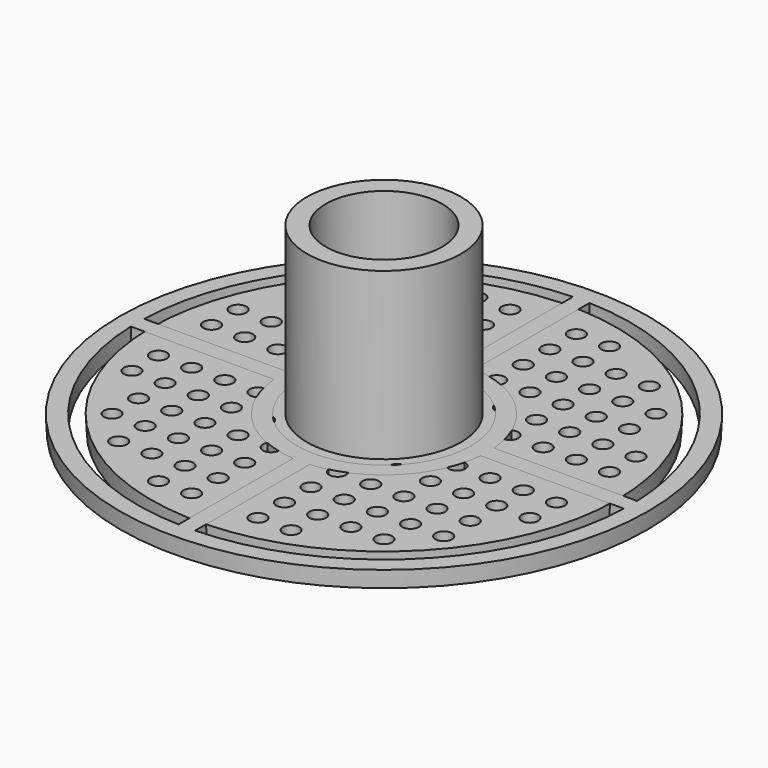
from build123d import *

# Parameters (mm, degrees)
SKETCH_R        = 28
PAD_DEPTH       = 2
PAD_TAPER       = -3
SKETCH001_R     = 9.3
PAD001_DEPTH    = 20
SKETCH002_R     = 7.020729
POCKET_DEPTH    = 20
SKETCH006_R     = 1
POCKET003_DEPTH = 2.001
SKETCH007_R     = 1
POCKET004_DEPTH = 2.001
SKETCH003_R     = 31.75
PAD002_DEPTH    = 2
PAD002_TAPER    = -3
SKETCH004_R     = 10.5
POCKET001_DEPTH = 2.001
POCKET002_DEPTH = 5


with BuildPart() as body:
    # Sketch → Pad (new body)
    with BuildSketch(Plane.XY):
        Circle(SKETCH_R)
    extrude(amount=PAD_DEPTH, taper=PAD_TAPER)

    # Sketch001 (on Face3 of Pad) → Pad001 (join)
    with BuildSketch(Plane.XY.offset(2)):
        Circle(SKETCH001_R)
    extrude(amount=PAD001_DEPTH)

    # Sketch002 (on Face5 of Pad001) → Pocket (cut)
    with BuildSketch(Plane.XY.offset(22)):
        Circle(SKETCH002_R)
    extrude(amount=-POCKET_DEPTH, mode=Mode.SUBTRACT)

    # Sketch006 (on Face3 of Pocket) → Pocket003 (cut, through all)
    with BuildSketch(Plane.XY.offset(2)):
        with Locations((0, -24)):
            Circle(SKETCH006_R)
        with Locations((4, -24)):
            Circle(SKETCH006_R)
        with Locations((-4, -24)):
            Circle(SKETCH006_R)
        with Locations((-8, -24)):
            Circle(SKETCH006_R)
        with Locations((8, -24)):
            Circle(SKETCH006_R)
        with Locations((-16, -20)):
            Circle(SKETCH006_R)
        with Locations((-12, -20)):
            Circle(SKETCH006_R)
        with Locations((-8, -20)):
            Circle(SKETCH006_R)
        with Locations((-4, -20)):
            Circle(SKETCH006_R)
        with Locations((0, -20)):
            Circle(SKETCH006_R)
        with Locations((4, -20)):
            Circle(SKETCH006_R)
        with Locations((8, -20)):
            Circle(SKETCH006_R)
        with Locations((12, -20)):
            Circle(SKETCH006_R)
        with Locations((16, -20)):
            Circle(SKETCH006_R)
        with Locations((-20, -16)):
            Circle(SKETCH006_R)
        with Locations((-16, -16)):
            Circle(SKETCH006_R)
        with Locations((-12, -16)):
            Circle(SKETCH006_R)
        with Locations((-8, -16)):
            Circle(SKETCH006_R)
        with Locations((-4, -16)):
            Circle(SKETCH006_R)
        with Locations((0, -16)):
            Circle(SKETCH006_R)
        with Locations((4, -16)):
            Circle(SKETCH006_R)
        with Locations((8, -16)):
            Circle(SKETCH006_R)
        with Locations((12, -16)):
            Circle(SKETCH006_R)
        with Locations((16, -16)):
            Circle(SKETCH006_R)
        with Locations((20, -16)):
            Circle(SKETCH006_R)
        with Locations((-20, -12)):
            Circle(SKETCH006_R)
        with Locations((-16, -12)):
            Circle(SKETCH006_R)
        with Locations((-12, -12)):
            Circle(SKETCH006_R)
        with Locations((-8, -12)):
            Circle(SKETCH006_R)
        with Locations((-4, -12)):
            Circle(SKETCH006_R)
        with Locations((0, -12)):
            Circle(SKETCH006_R)
        with Locations((4, -12)):
            Circle(SKETCH006_R)
        with Locations((8, -12)):
            Circle(SKETCH006_R)
        with Locations((12, -12)):
            Circle(SKETCH006_R)
        with Locations((16, -12)):
            Circle(SKETCH006_R)
        with Locations((20, -12)):
            Circle(SKETCH006_R)
        with Locations((-24, -8)):
            Circle(SKETCH006_R)
        with Locations((-20, -8)):
            Circle(SKETCH006_R)
        with Locations((-16, -8)):
            Circle(SKETCH006_R)
        with Locations((-12, -8)):
            Circle(SKETCH006_R)
        with Locations((-8, -8)):
            Circle(SKETCH006_R)
        with Locations((8, -8)):
            Circle(SKETCH006_R)
        with Locations((12, -8)):
            Circle(SKETCH006_R)
        with Locations((16, -8)):
            Circle(SKETCH006_R)
        with Locations((20, -8)):
            Circle(SKETCH006_R)
        with Locations((24, -8)):
            Circle(SKETCH006_R)
        with Locations((-24, -4)):
            Circle(SKETCH006_R)
        with Locations((-20, -4)):
            Circle(SKETCH006_R)
        with Locations((-16, -4)):
            Circle(SKETCH006_R)
        with Locations((-12, -4)):
            Circle(SKETCH006_R)
        with Locations((12, -4)):
            Circle(SKETCH006_R)
        with Locations((16, -4)):
            Circle(SKETCH006_R)
        with Locations((20, -4)):
            Circle(SKETCH006_R)
        with Locations((24, -4)):
            Circle(SKETCH006_R)
        with Locations((-24, 0)):
            Circle(SKETCH006_R)
        with Locations((-20, 0)):
            Circle(SKETCH006_R)
        with Locations((-16, 0)):
            Circle(SKETCH006_R)
        with Locations((-12, 0)):
            Circle(SKETCH006_R)
        with Locations((12, 0)):
            Circle(SKETCH006_R)
        with Locations((16, 0)):
            Circle(SKETCH006_R)
        with Locations((20, 0)):
            Circle(SKETCH006_R)
        with Locations((24, 0)):
            Circle(SKETCH006_R)
        with Locations((-24, 4)):
            Circle(SKETCH006_R)
        with Locations((-20, 4)):
            Circle(SKETCH006_R)
        with Locations((-16, 4)):
            Circle(SKETCH006_R)
        with Locations((-12, 4)):
            Circle(SKETCH006_R)
        with Locations((12, 4)):
            Circle(SKETCH006_R)
        with Locations((16, 4)):
            Circle(SKETCH006_R)
        with Locations((20, 4)):
            Circle(SKETCH006_R)
        with Locations((24, 4)):
            Circle(SKETCH006_R)
        with Locations((-24, 8)):
            Circle(SKETCH006_R)
        with Locations((-20, 8)):
            Circle(SKETCH006_R)
        with Locations((-16, 8)):
            Circle(SKETCH006_R)
        with Locations((-12, 8)):
            Circle(SKETCH006_R)
        with Locations((-8, 8)):
            Circle(SKETCH006_R)
        with Locations((8, 8)):
            Circle(SKETCH006_R)
        with Locations((12, 8)):
            Circle(SKETCH006_R)
        with Locations((16, 8)):
            Circle(SKETCH006_R)
        with Locations((20, 8)):
            Circle(SKETCH006_R)
        with Locations((24, 8)):
            Circle(SKETCH006_R)
        with Locations((-20, 12)):
            Circle(SKETCH006_R)
        with Locations((-16, 12)):
            Circle(SKETCH006_R)
        with Locations((-12, 12)):
            Circle(SKETCH006_R)
        with Locations((-8, 12)):
            Circle(SKETCH006_R)
        with Locations((-4, 12)):
            Circle(SKETCH006_R)
        with Locations((0, 12)):
            Circle(SKETCH006_R)
        with Locations((4, 12)):
            Circle(SKETCH006_R)
        with Locations((8, 12)):
            Circle(SKETCH006_R)
        with Locations((12, 12)):
            Circle(SKETCH006_R)
        with Locations((16, 12)):
            Circle(SKETCH006_R)
        with Locations((20, 12)):
            Circle(SKETCH006_R)
        with Locations((-16, 16)):
            Circle(SKETCH006_R)
        with Locations((-12, 16)):
            Circle(SKETCH006_R)
        with Locations((-8, 16)):
            Circle(SKETCH006_R)
        with Locations((-4, 16)):
            Circle(SKETCH006_R)
        with Locations((0, 16)):
            Circle(SKETCH006_R)
        with Locations((4, 16)):
            Circle(SKETCH006_R)
        with Locations((8, 16)):
            Circle(SKETCH006_R)
        with Locations((12, 16)):
            Circle(SKETCH006_R)
        with Locations((16, 16)):
            Circle(SKETCH006_R)
        with Locations((-20, 16)):
            Circle(SKETCH006_R)
        with Locations((20, 16)):
            Circle(SKETCH006_R)
        with Locations((16, 20)):
            Circle(SKETCH006_R)
        with Locations((12, 20)):
            Circle(SKETCH006_R)
        with Locations((8, 20)):
            Circle(SKETCH006_R)
        with Locations((4, 20)):
            Circle(SKETCH006_R)
        with Locations((0, 20)):
            Circle(SKETCH006_R)
        with Locations((-4, 20)):
            Circle(SKETCH006_R)
        with Locations((-8, 20)):
            Circle(SKETCH006_R)
        with Locations((-12, 20)):
            Circle(SKETCH006_R)
        with Locations((-16, 20)):
            Circle(SKETCH006_R)
        with Locations((-8, 24)):
            Circle(SKETCH006_R)
        with Locations((-4, 24)):
            Circle(SKETCH006_R)
        with Locations((0, 24)):
            Circle(SKETCH006_R)
        with Locations((4, 24)):
            Circle(SKETCH006_R)
        with Locations((8, 24)):
            Circle(SKETCH006_R)
    extrude(amount=-POCKET003_DEPTH, mode=Mode.SUBTRACT)

    # Sketch007 (on Face123 of Pocket003) → Pocket004 (cut, through all)
    with BuildSketch(Plane.XY.offset(2)):
        Circle(SKETCH007_R)
        with Locations((-5, 0)):
            Circle(SKETCH007_R)
        with Locations((-2.5, 0)):
            Circle(SKETCH007_R)
        with Locations((2.5, 0)):
            Circle(SKETCH007_R)
        with Locations((5, 0)):
            Circle(SKETCH007_R)
        with Locations((-3.5, 2.5)):
            Circle(SKETCH007_R)
        with Locations((0, 2.5)):
            Circle(SKETCH007_R)
        with Locations((3.5, 2.5)):
            Circle(SKETCH007_R)
        with Locations((-2, 5)):
            Circle(SKETCH007_R)
        with Locations((2, 5)):
            Circle(SKETCH007_R)
        with Locations((-3.5, -2.5)):
            Circle(SKETCH007_R)
        with Locations((0, -2.5)):
            Circle(SKETCH007_R)
        with Locations((3.5, -2.5)):
            Circle(SKETCH007_R)
        with Locations((-2, -5)):
            Circle(SKETCH007_R)
        with Locations((2, -5)):
            Circle(SKETCH007_R)
    extrude(amount=-POCKET004_DEPTH, mode=Mode.SUBTRACT)


with BuildPart() as obj1:
    # Sketch003 → Pad002 (new body)
    with BuildSketch(Plane.XY):
        Circle(SKETCH003_R)
    extrude(amount=PAD002_DEPTH, taper=PAD002_TAPER)

    # Sketch004 (on Face3 of Pad002) → Pocket001 (cut, through all)
    with BuildSketch(Plane.XY.offset(2)):
        Circle(SKETCH004_R)
    extrude(amount=-POCKET001_DEPTH, mode=Mode.SUBTRACT)

    # Sketch005 (on Face3 of Pocket001) → Pocket002 (cut)
    with BuildSketch(Plane.XY.offset(2)):
        with BuildLine():
            ThreePointArc((12.459936, 1), (8.838835, 8.838835), (1, 12.459936))
            Line((1, 12.459936), (1, 29.733189))
            ThreePointArc((29.733189, 1), (21.036427, 21.036427), (1, 29.733189))
            Line((12.459936, 1), (29.733189, 1))
        make_face()
        with BuildLine():
            ThreePointArc((1, -12.459936), (8.838835, -8.838835), (12.459936, -1))
            Line((12.459936, -1), (29.733189, -1))
            ThreePointArc((1, -29.733189), (21.036427, -21.036427), (29.733189, -1))
            Line((1, -12.459936), (1, -29.733189))
        make_face()
        with BuildLine():
            ThreePointArc((-1, 12.459936), (-8.838835, 8.838835), (-12.459936, 1))
            Line((-12.459936, 1), (-29.733189, 1))
            ThreePointArc((-1, 29.733189), (-21.036427, 21.036427), (-29.733189, 1))
            Line((-1, 12.459936), (-1, 29.733189))
        make_face()
        with BuildLine():
            ThreePointArc((-12.459936, -1), (-8.838835, -8.838835), (-1, -12.459936))
            Line((-1, -12.459936), (-1, -29.733189))
            ThreePointArc((-29.733189, -1), (-21.036427, -21.036427), (-1, -29.733189))
            Line((-29.733189, -1), (-12.459936, -1))
        make_face()
    extrude(amount=-POCKET002_DEPTH, mode=Mode.SUBTRACT)


solid = Compound([body.part, obj1.part])
